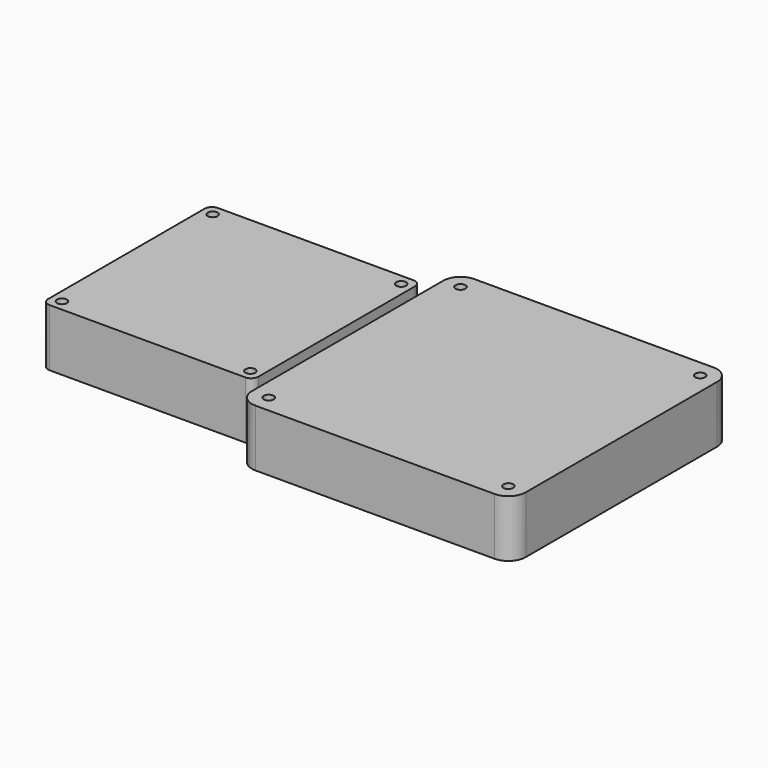
from build123d import *

# Parameters (mm, degrees)
F1_DEPTH = 25.1714
F3_D     = 4.318
F4_W     = 120
F4_H     = 120
F4_R     = 2.159
F5_DEPTH = 25
F6_R     = 7.62


with BuildPart() as f1:
    # F0 (on Top) → F1 (new body)
    with BuildSketch(Plane.XY):
        with BuildLine():
            Line((42.8879, 46.0629), (-42.8879, 46.0629))
            ThreePointArc((-42.8879, 46.0629), (-45.132964, 45.132964), (-46.0629, 42.8879))
            Line((-46.0629, 42.8879), (-46.0629, -42.8879))
            ThreePointArc((-46.0629, -42.8879), (-45.132964, -45.132964), (-42.8879, -46.0629))
            Line((-42.8879, -46.0629), (42.8879, -46.0629))
            ThreePointArc((42.8879, -46.0629), (45.132964, -45.132964), (46.0629, -42.8879))
            Line((46.0629, -42.8879), (46.0629, 42.8879))
            ThreePointArc((46.0629, 42.8879), (45.132964, 45.132964), (42.8879, 46.0629))
        make_face()
    extrude(amount=F1_DEPTH)

    # F3 (through all)
    with Locations(Plane.XY.offset(25.1714)):
        with Locations((-41.275, 41.275), (41.275, 41.275), (-41.275, -41.275), (41.275, -41.275)):
            Hole(F3_D / 2)


with BuildPart() as f5:
    # F4 (on Top) → F5 (new body)
    with BuildSketch(Plane.XY):
        with Locations((110.8, 0)):
            Rectangle(F4_W, F4_H)
        with Locations((58.3, -52.5)):
            Circle(F4_R, mode=Mode.SUBTRACT)
        with Locations((163.3, -52.5)):
            Circle(F4_R, mode=Mode.SUBTRACT)
        with Locations((58.3, 52.5)):
            Circle(F4_R, mode=Mode.SUBTRACT)
        with Locations((163.3, 52.5)):
            Circle(F4_R, mode=Mode.SUBTRACT)
    extrude(amount=F5_DEPTH)

    # F6
    f6_edges = [f5.edges().sort_by_distance(p)[0] for p in [
        (50.8, -60, 12.5),
        (170.8, -60, 12.5),
        (170.8, 60, 12.5),
        (50.8, 60, 12.5),
    ]]
    fillet(f6_edges, radius=F6_R)


solid = Compound([f1.part, f5.part])
